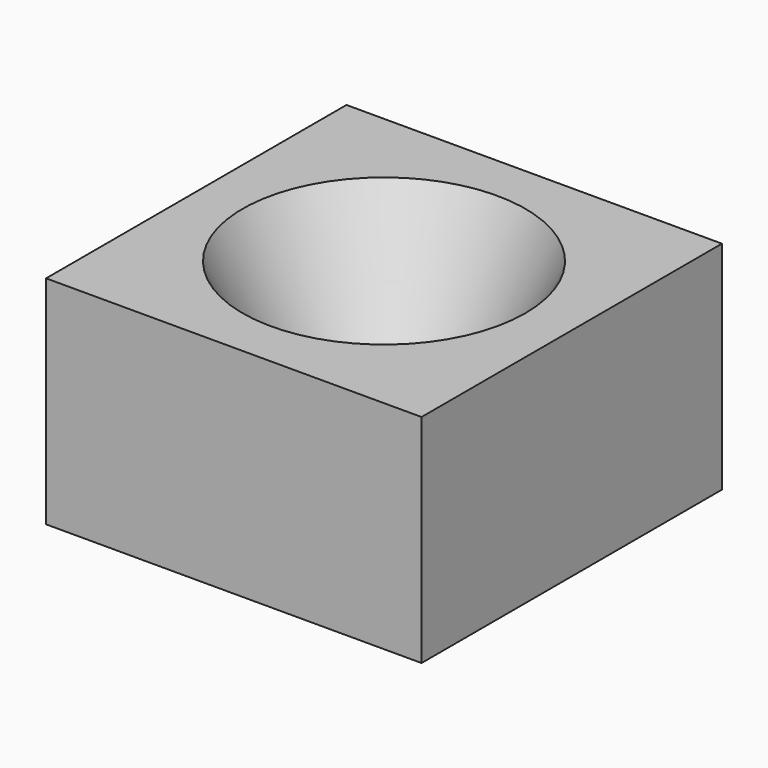
from build123d import *

# Parameters (mm, degrees)
F0_W     = 44.030744
F0_H     = 44.030744
F1_DEPTH = 25.4


with BuildPart() as f1:
    # F0 (on Top) → F1 (new body)
    with BuildSketch(Plane.XY):
        Rectangle(F0_W, F0_H)
    extrude(amount=F1_DEPTH)


with BuildPart() as f3:
    # F2 (on Front) → F3 (revolve)
    with BuildSketch(Plane.XZ):
        Polygon((19.131194, 30.48), (0, 30.48), (0, -7.62), align=None)
    revolve(axis=Axis((0, 0, 11.43), (0, 0, 1)))


with BuildPart() as f1_1:
    add(f1.part)

    # F4: cut F3
    add(f3.part, mode=Mode.SUBTRACT)


solid = f1_1.part
